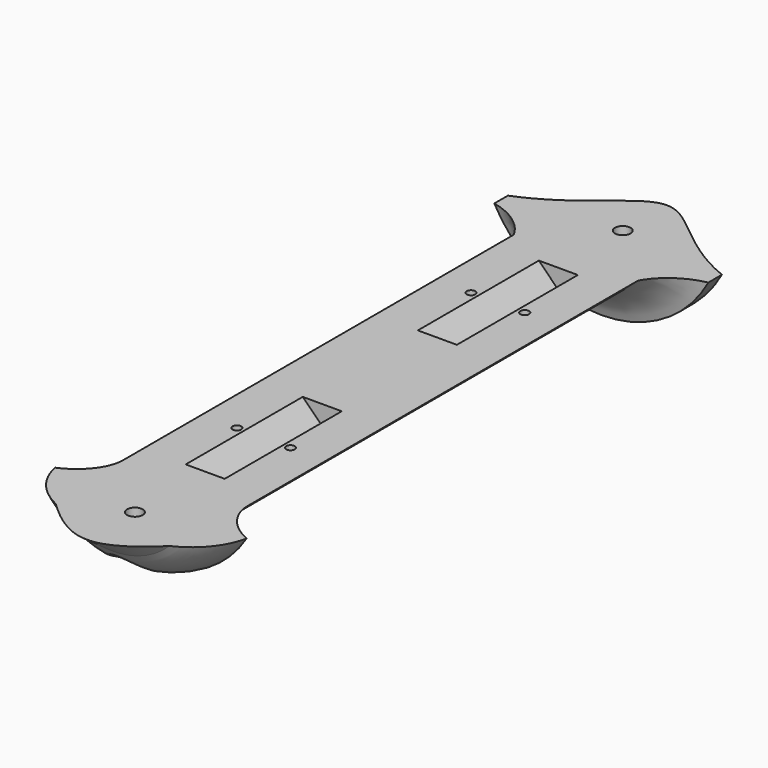
from build123d import *

# Parameters (mm, degrees)
SKETCH035_W     = 168.897315
SKETCH035_H     = 269.740737
POCKET011_DEPTH = 44
SKETCH038_R     = 0.9
POCKET012_DEPTH = 4
POCKET013_DEPTH = 30
POCKET014_DEPTH = 31
SKETCH046_R     = 1.6
POCKET017_DEPTH = 25
SKETCH047_R     = 3.15
POCKET018_DEPTH = 12
FILLET_R        = 1


with BuildPart() as part:
    # Sketch030 → Revolution003 (revolve)
    with BuildSketch(Plane.XY):
        with BuildLine():
            Line((17.5, 50), (17.5, -50))
            ThreePointArc((17.5, -50), (18.991017, -55.253305), (23.019443, -58.940056))
            ThreePointArc((16.729909, -68.709123), (20.858944, -64.458282), (23.019443, -58.940056))
            Line((16.729909, -68.709123), (8.152226, -80.547134))
            Line((8.152226, -80.547134), (0, -80.547134))
            Line((0, -80.547134), (0, -47.458003))
            Line((0, -47.458003), (0, 85))
            Line((2.996734, 85), (0, 85))
            Line((10, 85), (2.996734, 85))
            ThreePointArc((10, 85), (13.598169, 70.158901), (25, 60))
            Line((25.015494, 56.516322), (25, 60))
            Line((25.000088, 56.512672), (25.015494, 56.516322))
            ThreePointArc((25.000088, 56.512672), (20.448976, 54.178858), (17.5, 50))
        make_face()
    revolve(axis=Axis((0, 0, 0), (0, 1, 0)))

    # Sketch035 → Pocket011 (cut)
    with BuildSketch(Plane.XY.offset(-12)):
        with Locations((-0.125751, 0.819221)):
            Rectangle(SKETCH035_W, SKETCH035_H)
    extrude(amount=POCKET011_DEPTH, mode=Mode.SUBTRACT)

    # Sketch038 → Pocket012 (cut)
    with BuildSketch(Plane.XY.offset(-12)):
        with Locations((-5.5, 30)):
            Circle(SKETCH038_R)
        with Locations((-5.5, -30)):
            Circle(SKETCH038_R)
        with Locations((5.5, 30)):
            Circle(SKETCH038_R)
        with Locations((5.5, -30)):
            Circle(SKETCH038_R)
    extrude(amount=-POCKET012_DEPTH, mode=Mode.SUBTRACT)

    # Sketch039 → Pocket013 (cut)
    with BuildSketch(Plane.XZ.offset(45)):
        Polygon((-4, -12), (0, -16), (4, -12), align=None)
    extrude(amount=-POCKET013_DEPTH, mode=Mode.SUBTRACT)

    # Sketch040 → Pocket014 (cut)
    with BuildSketch(Plane.XZ.offset(-45.5)):
        Polygon((-4, -12), (0, -16), (4, -12), align=None)
    extrude(amount=POCKET014_DEPTH, mode=Mode.SUBTRACT)

    # Sketch046 → Pocket017 (cut)
    with BuildSketch(Plane.XY.offset(-11)):
        with Locations((0, 62)):
            Circle(SKETCH046_R)
        with Locations((0, -63)):
            Circle(SKETCH046_R)
    extrude(amount=-POCKET017_DEPTH, mode=Mode.SUBTRACT)

    # Sketch047 → Pocket018 (cut)
    with BuildSketch(Plane.XY.offset(-15)):
        with Locations((0, 62)):
            Circle(SKETCH047_R)
        with Locations((0, -63)):
            Circle(SKETCH047_R)
    extrude(amount=-POCKET018_DEPTH, mode=Mode.SUBTRACT)

    # Fillet
    fillet_edges = [part.edges().sort_by_distance(p)[0] for p in [
        (2.393604, -65.047721, -20.318846),
        (-1.90954, 64.505226, -18.099008),
    ]]
    fillet(fillet_edges, radius=FILLET_R)


solid = part.part
